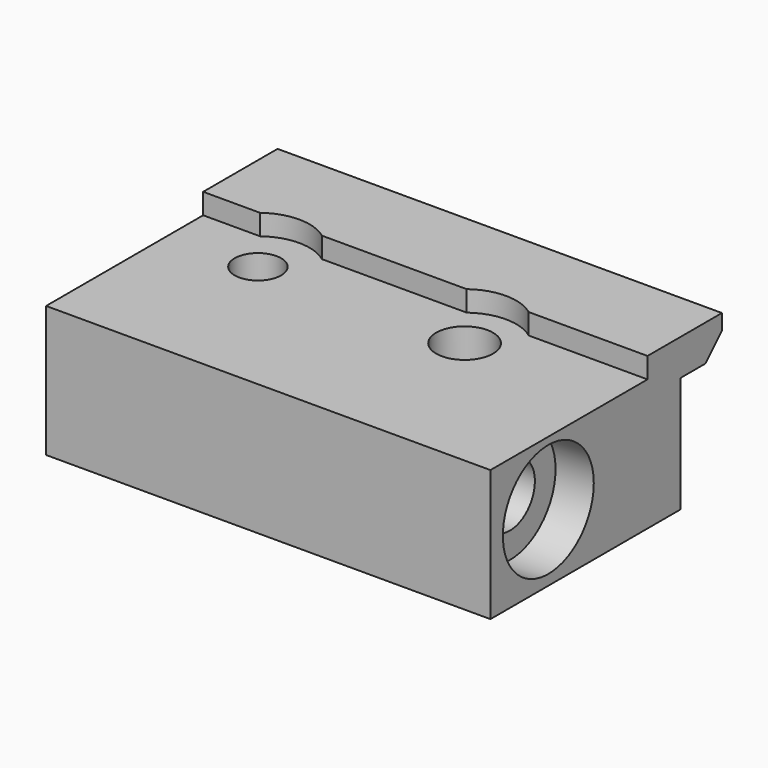
from build123d import *

# Parameters (mm, degrees)
F0_W      = 43
F0_H      = 23
F1_DEPTH  = 12.7
F2_R      = 2.75
F2_R_2    = 2.25
F3_DEPTH  = 25.4
F4_R      = 3
F5_DEPTH  = 50.8
F6_R      = 5.35
F7_DEPTH  = 3.5
F8_R      = 5.5
F9_DEPTH  = 3.7
F10_W     = 43
F10_H     = 4
F11_DEPTH = 2
F12_W     = 43
F12_H     = 3.5
F13_DEPTH = 5
F14_SIZE  = 2
F15_R     = 5
F16_DEPTH = 25


with BuildPart() as f1:
    # F0 (on Top) → F1 (new body)
    with BuildSketch(Plane.XY):
        Rectangle(F0_W, F0_H)
    extrude(amount=F1_DEPTH)

    # F2 (on face) → F3 (cut)
    with BuildSketch(Plane.XY.offset(12.7)):
        with Locations((7, 3.5)):
            Circle(F2_R)
        with Locations((-13, 3.5)):
            Circle(F2_R_2)
    extrude(amount=-F3_DEPTH, mode=Mode.SUBTRACT)

    # F4 (on face) → F5 (cut)
    with BuildSketch(Plane(origin=(-21.5, 0, 0), x_dir=(0, -1, 0), z_dir=(-1, 0, 0))):
        with Locations((4.5, 6.5)):
            Circle(F4_R)
    extrude(amount=-F5_DEPTH, mode=Mode.SUBTRACT)

    # F6 (on face) → F7 (cut)
    with BuildSketch(Plane(origin=(-21.5, 0, 0), x_dir=(0, -1, 0), z_dir=(-1, 0, 0))):
        with Locations((4.5, 6.5)):
            Circle(F6_R)
    extrude(amount=-F7_DEPTH, mode=Mode.SUBTRACT)

    # F8 (on face) → F9 (cut)
    with BuildSketch(Plane.YZ.offset(21.5)):
        with Locations((-4.5, 6.5)):
            Circle(F8_R)
    extrude(amount=-F9_DEPTH, mode=Mode.SUBTRACT)

    # F10 (on face) → F11 (join)
    with BuildSketch(Plane.XY.offset(12.7)):
        with Locations((0, 9.5)):
            Rectangle(F10_W, F10_H)
    extrude(amount=F11_DEPTH)

    # F12 (on face) → F13 (join)
    with BuildSketch(Plane(origin=(0, 11.5, 0), x_dir=(-1, 0, 0), z_dir=(0, 1, 0))):
        with Locations((0, 12.95)):
            Rectangle(F12_W, F12_H)
    extrude(amount=F13_DEPTH)

    # F14
    f14_edges = [f1.edges().sort_by_distance(p)[0] for p in [
        (0, 16.5, 11.2),
    ]]
    chamfer(f14_edges, length=F14_SIZE)

    # F15 (on face) → F16 (cut)
    with BuildSketch(Plane.XY.offset(12.7)):
        with Locations((-13, 3.5)):
            Circle(F15_R)
        with Locations((7, 3.5)):
            Circle(F15_R)
    extrude(amount=F16_DEPTH, mode=Mode.SUBTRACT)


solid = f1.part
